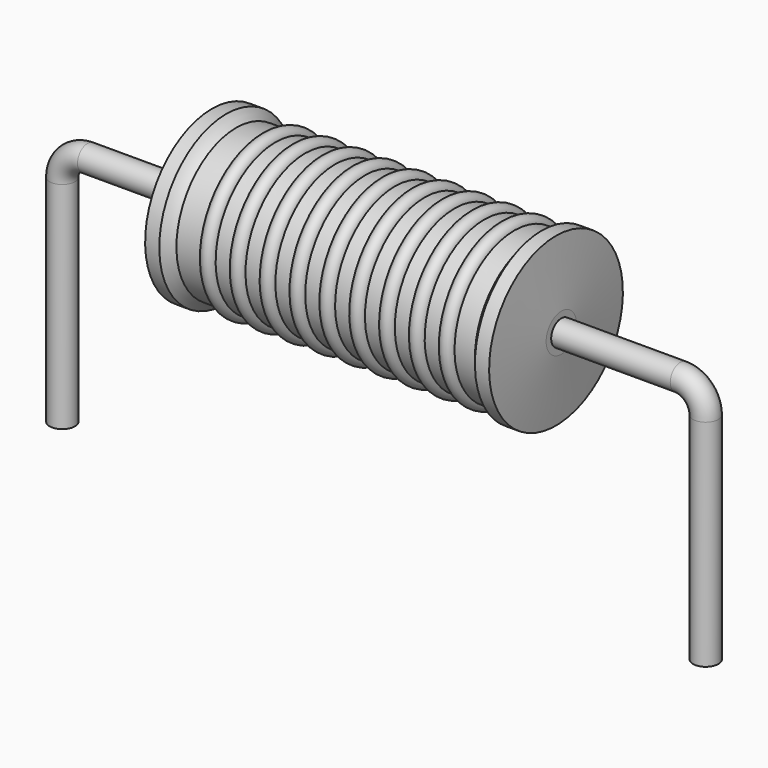
from build123d import *

# Parameters (mm, degrees)
SKETCH_R = 0.25


with BuildPart() as sweep_body:
    # Sweep: sweep along a path in Sketch001
    with BuildLine(Plane.XZ) as sweep_path:
        Line((0, -3), (0, 1.25))
        ThreePointArc((0, 1.25), (0.146445, 1.603551), (0.499994, 1.75))
        Line((0.499994, 1.75), (12.2, 1.75))
        ThreePointArc((12.2, 1.75), (12.553553, 1.603553), (12.7, 1.25))
        Line((12.7, 1.25), (12.7, -3))
    # Sketch → Sweep (sweep)
    with BuildSketch(Plane.XY.offset(-2)):
        Circle(SKETCH_R)
    sweep(path=sweep_path.line)


with BuildPart() as revolution001:
    # Sketch003 → Revolution001 (revolve)
    with BuildSketch(Plane.XZ):
        with BuildLine():
            ThreePointArc((4.209474, 3.197), (4.062105, 3.344368), (3.914737, 3.197))
            Line((3.62, 3.197), (3.914737, 3.197))
            Line((3.62, 3.197), (3.62, 2.867))
            Line((3.62, 2.867), (9.22, 2.867))
            Line((9.22, 2.867), (9.22, 3.197))
            Line((8.925263, 3.197), (9.22, 3.197))
            ThreePointArc((8.925263, 3.197), (8.777895, 3.344368), (8.630526, 3.197))
            Line((8.335789, 3.197), (8.630526, 3.197))
            ThreePointArc((8.335789, 3.197), (8.188421, 3.344368), (8.041053, 3.197))
            Line((7.746316, 3.197), (8.041053, 3.197))
            ThreePointArc((7.746316, 3.197), (7.598947, 3.344368), (7.451579, 3.197))
            Line((7.156842, 3.197), (7.451579, 3.197))
            ThreePointArc((7.156842, 3.197), (7.009474, 3.344368), (6.862105, 3.197))
            Line((6.567368, 3.197), (6.862105, 3.197))
            ThreePointArc((6.567368, 3.197), (6.42, 3.344368), (6.272632, 3.197))
            Line((5.977895, 3.197), (6.272632, 3.197))
            ThreePointArc((5.977895, 3.197), (5.830526, 3.344368), (5.683158, 3.197))
            Line((5.388421, 3.197), (5.683158, 3.197))
            ThreePointArc((5.388421, 3.197), (5.241053, 3.344368), (5.093684, 3.197))
            Line((4.798947, 3.197), (5.093684, 3.197))
            ThreePointArc((4.798947, 3.197), (4.651579, 3.344368), (4.504211, 3.197))
            Line((4.209474, 3.197), (4.504211, 3.197))
        make_face()
    revolve(axis=Axis((3.025, 0, 1.75), (1, 0, 0)))


with BuildPart() as obj1:
    # Sketch002 → Revolution (revolve)
    with BuildSketch(Plane.XZ):
        with BuildLine():
            Line((2.955, 3.4), (3.235, 3.4))
            ThreePointArc((3.235, 3.4), (3.325554, 3.302943), (3.433, 3.225))
            Line((3.433, 3.225), (9.325, 3.225))
            ThreePointArc((9.325, 3.225), (9.404018, 3.305286), (9.465, 3.4))
            Line((9.465, 3.4), (9.745, 3.4))
            ThreePointArc((9.85, 2.125), (9.798378, 2.762572), (9.745, 3.4))
            Line((9.85, 1.75), (9.85, 2.125))
            Line((2.85, 1.75), (9.85, 1.75))
            Line((2.85, 1.75), (2.85, 2.125))
            ThreePointArc((2.955, 3.4), (2.901622, 2.762572), (2.85, 2.125))
        make_face()
    revolve(axis=Axis((2.85, 0, 1.75), (1, 0, 0)))

    # obj1: union Sweep body, Revolution001
    add(sweep_body.part)
    add(revolution001.part)


solid = obj1.part
